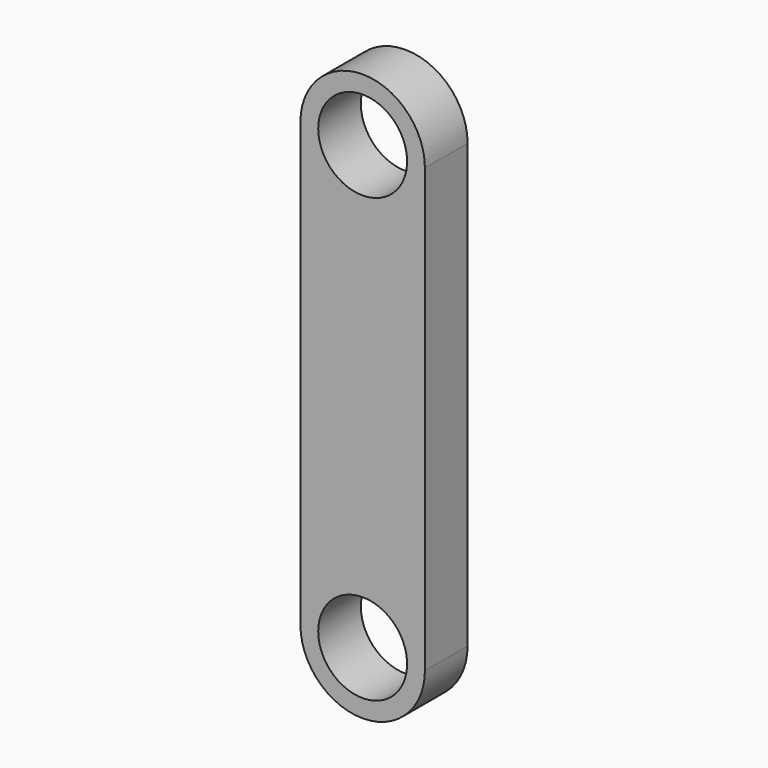
from build123d import *

# Parameters (mm, degrees)
F1_DEPTH = 3


with BuildPart() as f1:
    # F0 (on Front) → F1 (new body)
    with BuildSketch(Plane.XZ):
        with BuildLine():
            Line((-3.5, 39.051735), (-3.5, 26.609695))
            Line((-3.5, 26.609695), (-3.5, 14.167655))
            ThreePointArc((-3.5, 14.167655), (0, 10.667655), (3.5, 14.167655))
            Line((3.5, 14.167655), (3.5, 26.609695))
            Line((3.5, 26.609695), (3.5, 39.051735))
            ThreePointArc((3.5, 39.051735), (0, 42.551735), (-3.5, 39.051735))
        make_face()
        with BuildLine():
            ThreePointArc((2.5, 14.167655), (0, 11.667655), (-2.5, 14.167655))
            ThreePointArc((-2.5, 14.167655), (0, 16.667655), (2.5, 14.167655))
        make_face(mode=Mode.SUBTRACT)
        with BuildLine():
            ThreePointArc((2.5, 39.051735), (0, 36.551735), (-2.5, 39.051735))
            ThreePointArc((-2.5, 39.051735), (0, 41.551735), (2.5, 39.051735))
        make_face(mode=Mode.SUBTRACT)
    extrude(amount=F1_DEPTH)


solid = f1.part
